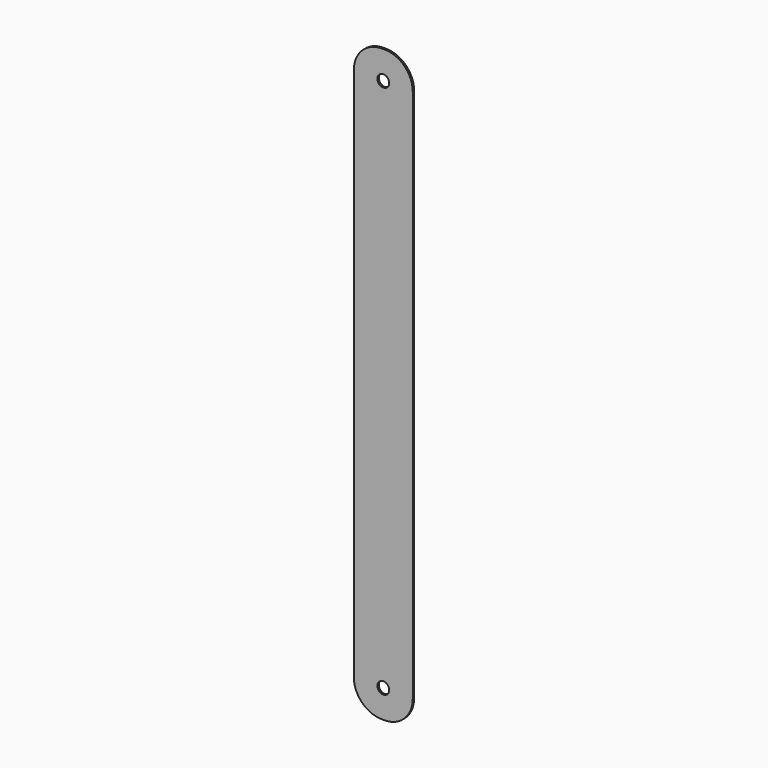
from build123d import *

# Parameters (mm, degrees)
F0_W     = 19.97
F0_H     = 100
F1_DEPTH = 0.6
F2_R     = 9.5
F3_R     = 2
F4_DEPTH = 0.601


with BuildPart() as f1:
    # F0 (on Front) → F1 (new body)
    with BuildSketch(Plane.XZ):
        with Locations((0, 50)):
            Rectangle(F0_W, F0_H)
        with Locations((0, -50)):
            Rectangle(F0_W, F0_H)
    extrude(amount=F1_DEPTH)

    # F2
    f2_edges = [f1.edges().sort_by_distance(p)[0] for p in [
        (9.985, -0.3, 100),
        (-9.985, -0.3, 100),
        (9.985, -0.3, -100),
        (-9.985, -0.3, -100),
    ]]
    fillet(f2_edges, radius=F2_R)

    # F3 (on face) → F4 (cut, through all)
    with BuildSketch(Plane.XZ.offset(0.6)):
        with Locations((0, 90.5)):
            Circle(F3_R)
        with Locations((0, -90.5)):
            Circle(F3_R)
    extrude(amount=-F4_DEPTH, mode=Mode.SUBTRACT)


solid = f1.part
